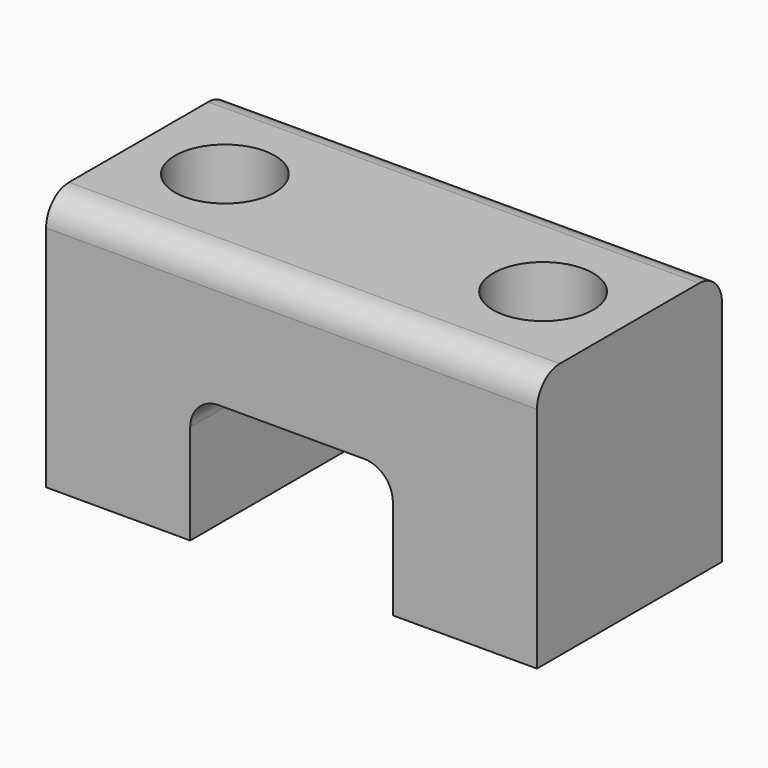
from build123d import *

# Parameters (mm, degrees)
F1_DEPTH = 8.1
F2_R     = 1.75
F3_DEPTH = 9.001
F4_R     = 1


with BuildPart() as f1:
    # F0 (on Front) → F1 (new body)
    with BuildSketch(Plane.XZ):
        Polygon((-8.6, 9), (-8.6, 0), (-3.55, 0), (-3.55, 4.5), (3.55, 4.5), (3.55, 0), (8.6, 0), (8.6, 9), align=None)
    extrude(amount=F1_DEPTH)

    # F2 (on face) → F3 (cut, through all)
    with BuildSketch(Plane.XY.offset(9)):
        with Locations((-5.575, -4.05)):
            Circle(F2_R)
        with Locations((5.575, -4.05)):
            Circle(F2_R)
    extrude(amount=-F3_DEPTH, mode=Mode.SUBTRACT)

    # F4
    f4_edges = [f1.edges().sort_by_distance(p)[0] for p in [
        (0, -8.1, 9),
        (0, 0, 9),
        (-3.55, -4.05, 4.5),
        (3.55, -4.05, 4.5),
    ]]
    fillet(f4_edges, radius=F4_R)


solid = f1.part
